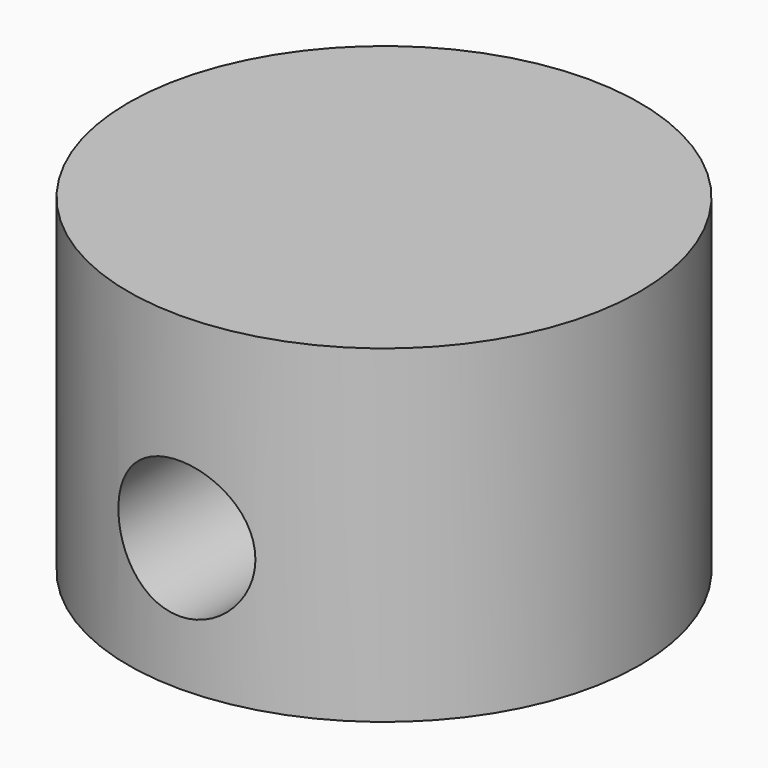
from build123d import *

# Parameters (mm, degrees)
F0_R     = 1.4
F1_DEPTH = 1.8
F2_R     = 0.375
F3_DEPTH = 12.5


with BuildPart() as f1:
    # F0 (on Top) → F1 (new body)
    with BuildSketch(Plane.XY):
        Circle(F0_R)
    extrude(amount=F1_DEPTH)

    # F2 (on Front) → F3 (cut, symmetric)
    with BuildSketch(Plane.XZ):
        with Locations((0, 0.725)):
            Circle(F2_R)
    extrude(amount=F3_DEPTH, both=True, mode=Mode.SUBTRACT)


solid = f1.part
